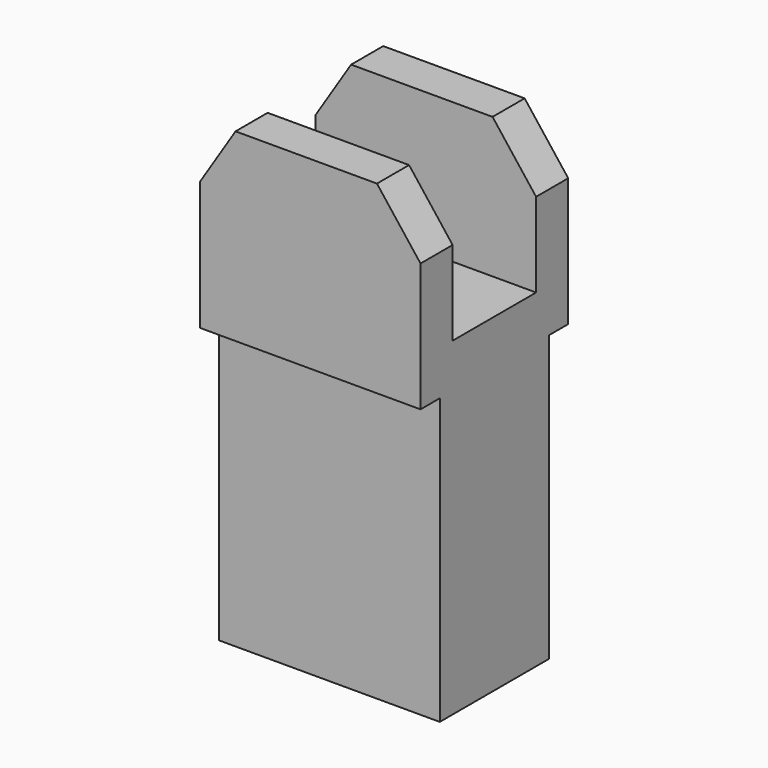
from build123d import *

# Parameters (mm, degrees)
F1_DEPTH  = 550
F2_W      = 60
F2_H      = 710
F3_DEPTH  = 550.001
F4_W      = 60
F4_H      = 710
F5_DEPTH  = 550.001
F6_W      = 260
F6_H      = 700
F7_DEPTH  = 550.001
F9_DEPTH  = 460.001
F11_DEPTH = 460.001


with BuildPart() as f1:
    # F0 (on Right) → F1 (new body)
    with BuildSketch(Plane.YZ):
        Polygon((-230, 585), (-230, -585), (230, -585), (230, 125), (230, 585), align=None)
    extrude(amount=F1_DEPTH)

    # F2 (on face) → F3 (cut, through all)
    with BuildSketch(Plane.YZ.offset(550)):
        with Locations((-200, -230)):
            Rectangle(F2_W, F2_H)
    extrude(amount=-F3_DEPTH, mode=Mode.SUBTRACT)

    # F4 (on face) → F5 (cut, through all)
    with BuildSketch(Plane.YZ.offset(550)):
        with Locations((200, -230)):
            Rectangle(F4_W, F4_H)
    extrude(amount=-F5_DEPTH, mode=Mode.SUBTRACT)

    # F6 (on face) → F7 (cut, through all)
    with BuildSketch(Plane.YZ.offset(550)):
        with Locations((0, 585)):
            Rectangle(F6_W, F6_H)
    extrude(amount=-F7_DEPTH, mode=Mode.SUBTRACT)

    # F8 (on face) → F9 (cut, through all)
    with BuildSketch(Plane.XZ.offset(230)):
        Polygon((0, 445), (89.0458141333, 585), (0, 585), align=None)
    extrude(amount=-F9_DEPTH, mode=Mode.SUBTRACT)

    # F10 (on face) → F11 (cut, through all)
    with BuildSketch(Plane.XZ.offset(230)):
        Polygon((550, 585), (441.4610564709, 585), (550, 445), align=None)
    extrude(amount=-F11_DEPTH, mode=Mode.SUBTRACT)


solid = f1.part
